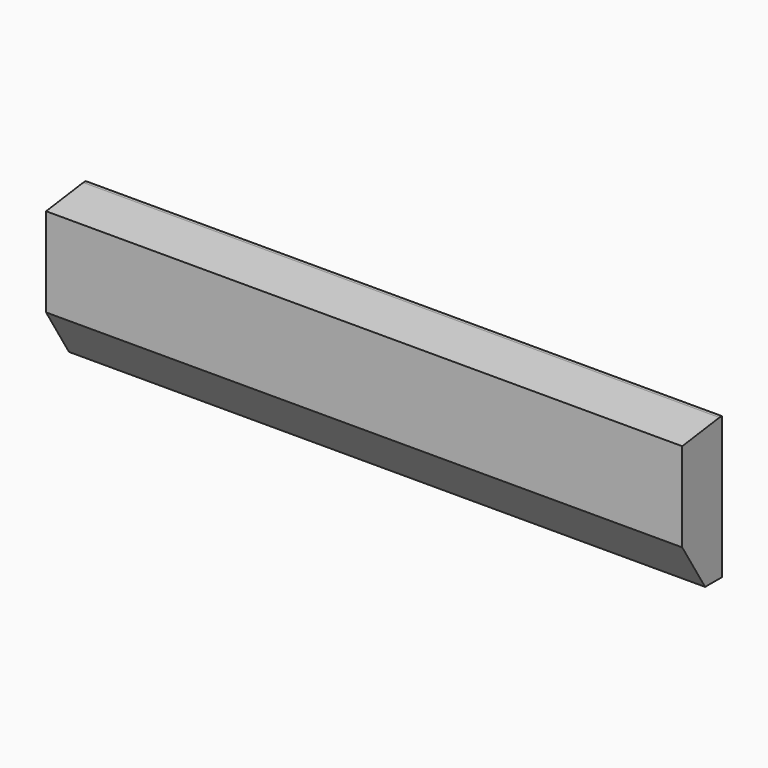
from build123d import *

# Parameters (mm, degrees)
F0_W     = 78
F0_H     = 223
F1_DEPTH = 1000
F2_SIZE2 = 73
F2_SIZE  = 10
F3_SIZE2 = 73
F3_SIZE  = 45


with BuildPart() as f1:
    # F0 (on Right) → F1 (new body)
    with BuildSketch(Plane.YZ):
        with Locations((-2.6943162084, 52.0490169225)):
            Rectangle(F0_W, F0_H)
    extrude(amount=F1_DEPTH)

    # F2
    f2_edges = [f1.edges().sort_by_distance(p)[0] for p in [
        (500, -41.694316, 163.549017),
    ]]
    f2_side = f1.faces().sort_by_distance((500, -41.694316, 52.049017))[0]
    chamfer(f2_edges, length=F2_SIZE, length2=F2_SIZE2, reference=f2_side)

    # F3
    f3_edges = [f1.edges().sort_by_distance(p)[0] for p in [
        (500, -41.694316, -59.450983),
    ]]
    f3_side = f1.faces().sort_by_distance((500, -2.694316, -59.450983))[0]
    chamfer(f3_edges, length=F3_SIZE, length2=F3_SIZE2, reference=f3_side)


solid = f1.part
